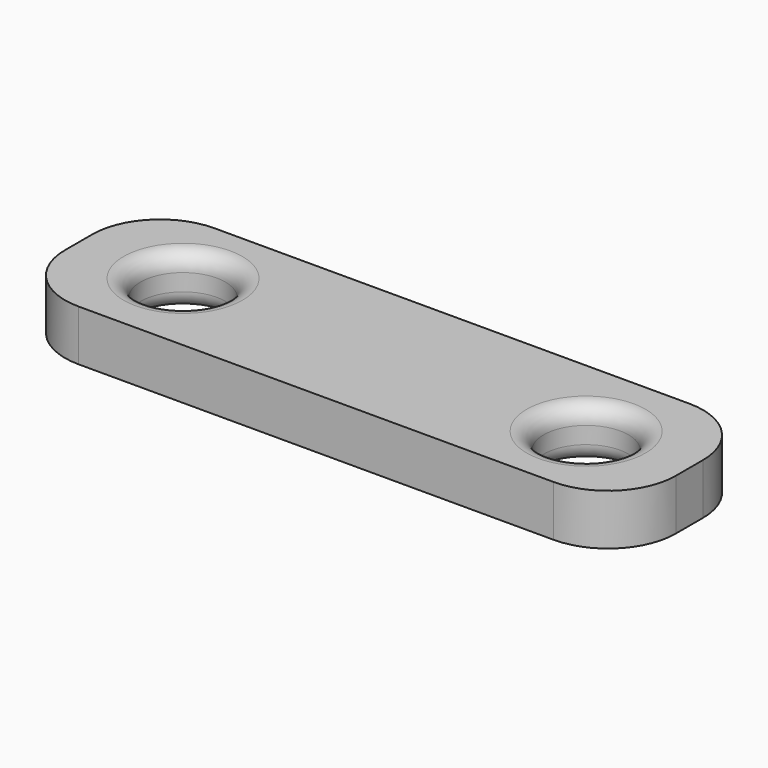
from build123d import *

# Parameters (mm, degrees)
F1_W     = 18
F1_H     = 5
F1_R     = 1.25
F2_DEPTH = 1.5
F3_R     = 2
F4_R     = 0.5


with BuildPart() as f2:
    # F1 (on face) → F2 (new body)
    with BuildSketch(Plane.XY):
        with Locations((9, 2.5)):
            Rectangle(F1_W, F1_H)
        with Locations((15, 2.445588)):
            Circle(F1_R, mode=Mode.SUBTRACT)
        with Locations((3, 2.596398)):
            Circle(F1_R, mode=Mode.SUBTRACT)
    extrude(amount=F2_DEPTH)

    # F3
    f3_edges = [f2.edges().sort_by_distance(p)[0] for p in [
        (0, 5, 0.75),
        (0, 0, 0.75),
        (18, 0, 0.75),
        (18, 5, 0.75),
    ]]
    fillet(f3_edges, radius=F3_R)

    # F4
    f4_edges = [f2.edges().sort_by_distance(p)[0] for p in [
        (1.75, 2.596398, 1.5),
        (16.25, 2.445588, 0.75),
        (13.75, 2.445588, 0),
        (13.75, 2.445588, 1.5),
        (1.75, 2.596398, 0),
    ]]
    fillet(f4_edges, radius=F4_R)


solid = f2.part
